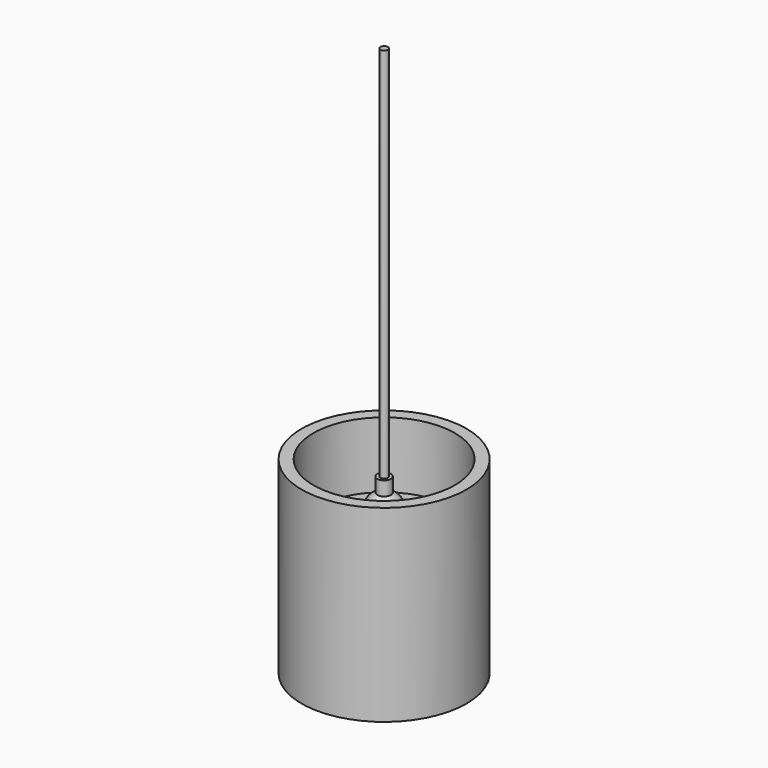
from build123d import *

# Parameters (mm, degrees)
F0_R      = 87.5
F1_DEPTH  = 200
F3_R      = 75
F4_DEPTH  = 70.001
F5_R      = 80
F6_DEPTH  = 130.001
F7_R      = 25
F8_DEPTH  = 100
F9_R      = 6
F10_DEPTH = 20
F11_R     = 3
F12_DEPTH = 200
F14_R     = 78
F14_R_2   = 20
F15_DEPTH = 4
F16_W     = 2.767952
F16_H     = 3.675245
F16_H_2   = 3.667846
F20_R     = 7.192923
F21_DEPTH = 15
F22_R     = 4
F23_DEPTH = 400


with BuildPart() as f1:
    # F0 (on Top) → F1 (new body)
    with BuildSketch(Plane.XY):
        Circle(F0_R)
    extrude(amount=-F1_DEPTH)

    # F3 (on offset) → F4 (cut, through all)
    with BuildSketch(Plane.XY.offset(-70)):
        Circle(F3_R)
    extrude(amount=F4_DEPTH, mode=Mode.SUBTRACT)

    # F5 (on offset) → F6 (cut, through all)
    with BuildSketch(Plane.XY.offset(-70)):
        Circle(F5_R)
    extrude(amount=-F6_DEPTH, mode=Mode.SUBTRACT)


with BuildPart() as f8:
    # F7 (on offset) → F8 (new body)
    with BuildSketch(Plane.XY.offset(-70)):
        Circle(F7_R)
    extrude(amount=-F8_DEPTH)

    # F9 (on face) → F10 (join)
    with BuildSketch(Plane.XY.offset(-70)):
        Circle(F9_R)
    extrude(amount=F10_DEPTH)

    # F11 (on face) → F12 (join)
    with BuildSketch(Plane.XY.offset(-50)):
        Circle(F11_R)
    extrude(amount=F12_DEPTH)


with BuildPart() as f15:
    # F14 (on offset) → F15 (new body)
    with BuildSketch(Plane.XY.offset(-70)):
        Circle(F14_R)
        Circle(F14_R_2, mode=Mode.SUBTRACT)
    extrude(amount=-F15_DEPTH)


with BuildPart() as f17:
    # F16 (on Front) → F17 (revolve)
    with BuildSketch(Plane.XZ):
        with BuildLine():
            Line((-19, -86.189678), (0, -86.189678))
            Line((0, -86.189678), (0, -31.189678))
            Line((0, -31.189678), (-5.019736, -31.189678))
            ThreePointArc((-5.019736, -31.189678), (-13.592427, -36.012978), (-17.293714, -45.126468))
            Line((-17.293714, -45.126468), (-19, -45.126468))
            Line((-19, -45.126468), (-19, -64.617999))
            Line((-19, -64.617999), (-19, -68.285845))
            Line((-19, -68.285845), (-19, -69.886364))
            Line((-19, -69.886364), (-19, -74.112393))
            Line((-19, -74.112393), (-19, -75.643748))
            Line((-19, -75.643748), (-19, -79.318993))
            Line((-19, -79.318993), (-19, -86.189678))
        make_face()
        with Locations((-20.383976, -77.48137)):
            Rectangle(F16_W, F16_H)
        Polygon((-21.767952, -75.643748), (-19, -75.643748), (-19, -74.112393), (-24.568854, -74.112393), (-24.568854, -75.643748), align=None)
        Polygon((-24.568854, -69.886364), (-19, -69.886364), (-19, -68.285845), (-21.767952, -68.285845), (-24.568854, -68.285845), align=None)
        with Locations((-20.383976, -66.451922)):
            Rectangle(F16_W, F16_H_2)
    revolve(axis=Axis((0, 0, -43.094839), (0, 0, -1)))

    # F20 (on face) → F21 (join)
    with BuildSketch(Plane.XY.offset(-31.189678)):
        Circle(F20_R)
    extrude(amount=F21_DEPTH)


with BuildPart() as f19:
    # F18 (on Front) → F19 (revolve)
    with BuildSketch(Plane.XZ):
        with BuildLine():
            Line((0, -169.701414), (0, -89.701414))
            ThreePointArc((0, -89.701414), (-11.235745, -91.311858), (-21.566763, -96.013513))
            ThreePointArc((-21.566763, -96.013513), (-38.389556, -140.937159), (0, -169.701414))
        make_face()
        with BuildLine():
            ThreePointArc((-21.566763, -96.013513), (-11.235745, -91.311858), (0, -89.701414))
            Line((0, -89.701414), (0, -86.166101))
            Line((0, -86.166101), (-15.746759, -86.166101))
            ThreePointArc((-15.746759, -86.166101), (-17.484267, -91.782773), (-21.566763, -96.013513))
        make_face()
    revolve(axis=Axis((0, 0, -129.701414), (0, 0, -1)))


with BuildPart() as f23:
    # F22 (on face) → F23 (new body)
    with BuildSketch(Plane.XY.offset(-16.189678)):
        Circle(F22_R)
    extrude(amount=F23_DEPTH)


solid = Compound([f1.part, f15.part, f17.part, f19.part, f23.part])
